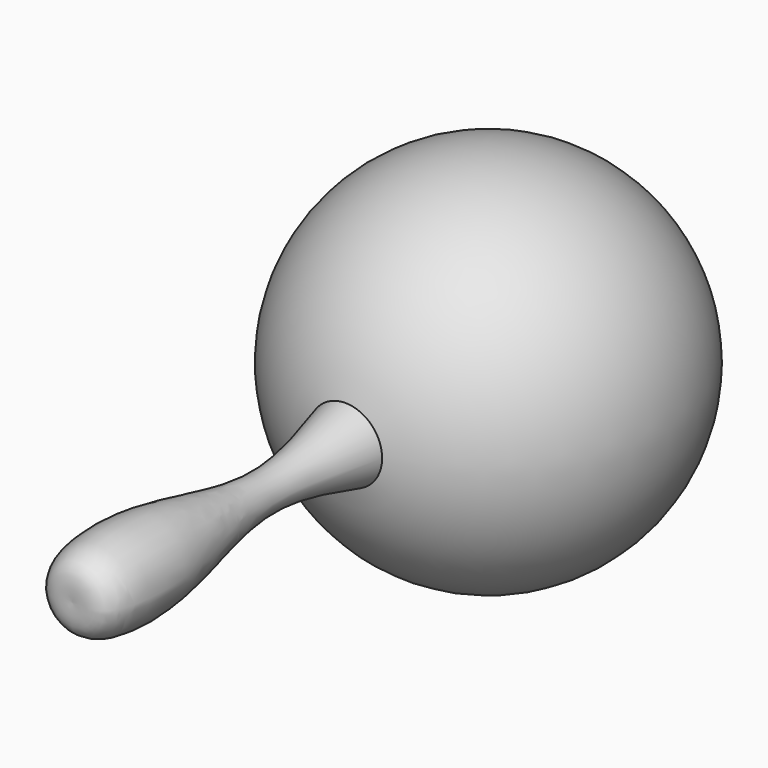
from build123d import *


with BuildPart() as f1:
    # F0 (on Top) → F1 (revolve)
    with BuildSketch(Plane.XY):
        with BuildLine():
            add(Edge.make_bspline(
                [(5.067788155, 17.4432524289), (3.6978222332, 12.3775271285), (0.8219287765, 1.7899306387), (6.7440625293, -15.2376415346), (5.8839688861, -30.174954229), (1.5940978435, -29.8554763208), (0, -29.7366864979)],
                knots=[0, 0, 0, 0, 0.2849241717, 0.596604316, 0.8501481867, 1, 1, 1, 1], degree=3))
            ThreePointArc((5.067788155, 17.4432524289), (25.053343566, 44.6574831278), (0, 67.2930028652))
            Line((0, 67.2930028652), (0, 66.1120388928))
            ThreePointArc((0, 66.1120388928), (24.0015100959, 42.1105287969), (0, 18.109018701))
            Line((0, 18.109018701), (0, 16.9280547286))
            Line((0, 16.9280547286), (0, -29.7366864979))
        make_face()
    revolve(axis=Axis((0, 18.7781581836, 0), (0, -1, 0)))


with BuildPart() as f3:
    # F2 (on Right) → F3 (revolve)
    with BuildSketch(Plane.YZ):
        with BuildLine():
            Line((41.0766300333, 12.9999571426), (41.0766300333, 3.4288524836))
            ThreePointArc((41.0766300333, 3.4288524836), (45.8434514718, 8.2144048131), (41.0766300333, 12.9999571426))
        make_face()
    revolve(axis=Axis((0, 41.0766300333, 8.2144048131), (0, 0, -1)))


solid = Compound([f1.part, f3.part])
